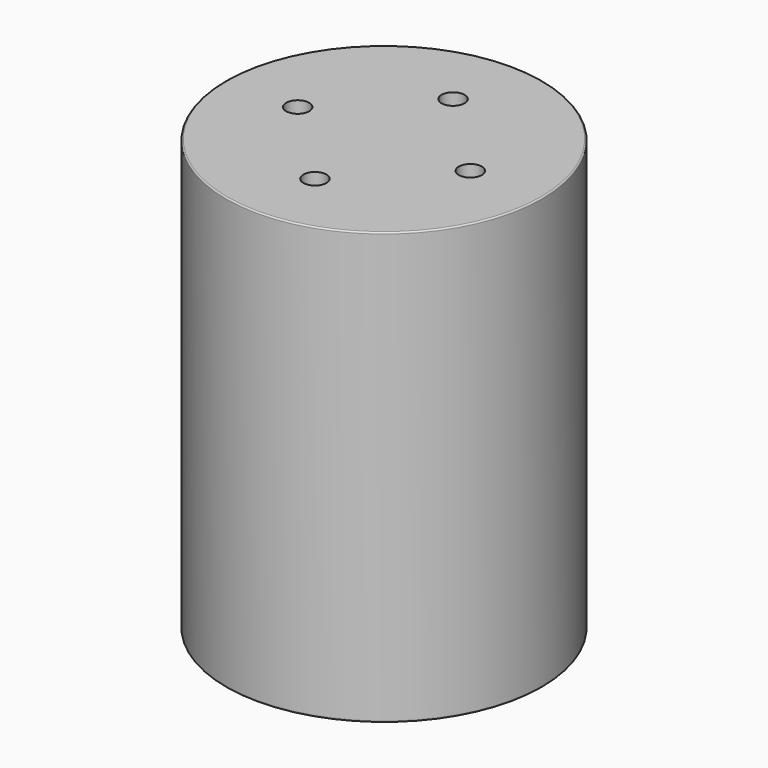
from build123d import *

# Parameters (mm, degrees)
F2_R     = 4
F3_DEPTH = 150.001


with BuildPart() as f1:
    # F0 (on Front) → F1 (revolve)
    with BuildSketch(Plane.XZ):
        with BuildLine():
            Line((-54.5, 0), (0, 0))
            Line((0, 0), (0, 10))
            Line((0, 10), (-40, 10))
            ThreePointArc((-40, 10), (-43.535534, 11.464466), (-45, 15))
            Line((-45, 15), (-45, 135))
            ThreePointArc((-45, 135), (-43.535534, 138.535534), (-40, 140))
            Line((-40, 140), (0, 140))
            Line((0, 140), (0, 150))
            Line((0, 150), (-54.5, 150))
            ThreePointArc((-54.5, 150), (-54.853553, 149.853553), (-55, 149.5))
            Line((-55, 149.5), (-55, 0.5))
            ThreePointArc((-55, 0.5), (-54.853553, 0.146447), (-54.5, 0))
        make_face()
    revolve(axis=Axis((0, 0, 48.276713), (0, 0, 1)))

    # F2 (on face) → F3 (cut, through all)
    with BuildSketch(Plane.XY.offset(150)):
        with Locations((30, 0)):
            Circle(F2_R)
        with Locations((0, 30)):
            Circle(F2_R)
        with Locations((-30, 0)):
            Circle(F2_R)
        with Locations((0, -30)):
            Circle(F2_R)
    extrude(amount=-F3_DEPTH, mode=Mode.SUBTRACT)


solid = f1.part
